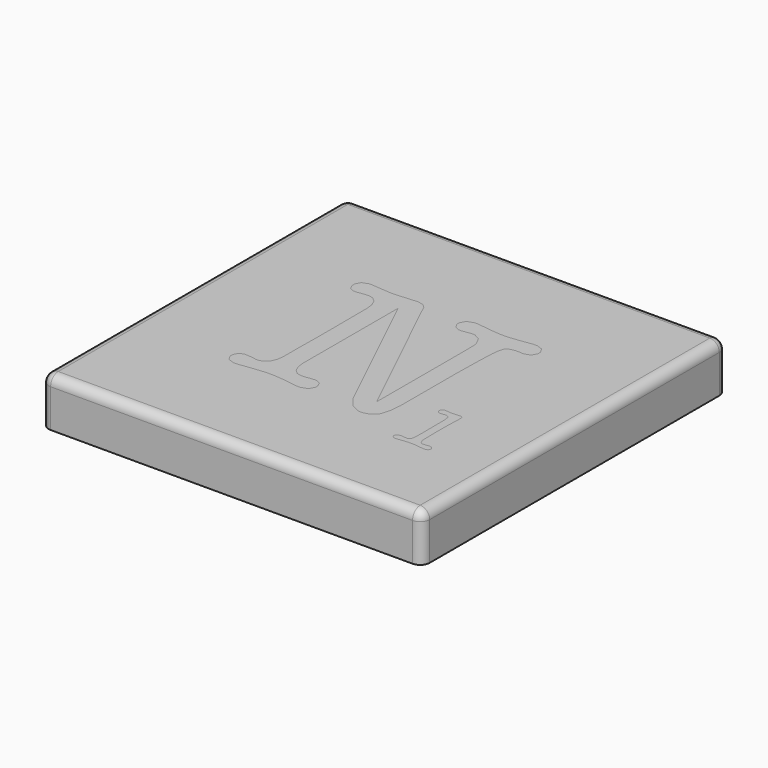
from build123d import *

# Parameters (mm, degrees)
F0_W     = 40
F0_H     = 40
F1_DEPTH = 5
F2_R     = 1
F5_DEPTH = 3


with BuildPart() as f1:
    # F0 (on Top) → F1 (new body)
    with BuildSketch(Plane.XY):
        Rectangle(F0_W, F0_H)
    extrude(amount=-F1_DEPTH)

    # F2
    f2_edges = [f1.edges().sort_by_distance(p)[0] for p in [
        (0, -20, 0),
        (20, 0, 0),
        (0, 20, 0),
        (-20, 0, 0),
        (-20, 20, -2.5),
        (20, 20, -2.5),
        (-20, -20, -2.5),
        (20, -20, -2.5),
    ]]
    fillet(f2_edges, radius=F2_R)


with BuildPart() as f5:
    # F3 (on Top) + F4 (on Top) → F5 (new body)
    with BuildSketch(Plane.XY):
        Polygon((4.735627, -6.89295), (-2.381936, 7.897546), (-2.672715, 8.532825), (-2.716809, 8.626526), (-3.076473, 8.950376), (-3.587699, 9.088171), (-3.757219, 9.088171), (-4.815561, 9.023401), (-4.947844, 9.009634), (-5.080127, 8.997213), (-5.840832, 8.9297), (-6.138469, 8.9297), (-6.356198, 8.9297), (-7.006641, 8.962771), (-7.956093, 9.039936), (-8.17659, 9.061983), (-8.220685, 9.067495), (-8.494928, 9.088171), (-8.599653, 9.088171), (-8.813241, 9.088171), (-9.452661, 8.856675), (-9.736531, 8.335747), (-9.736531, 8.162112), (-9.736531, 7.999527), (-9.525686, 7.508951), (-9.050274, 7.289851), (-8.890406, 7.289851), (-8.726424, 7.289851), (-8.23308, 7.355992), (-8.149031, 7.368362), (-8.092542, 7.37804), (-7.752156, 7.422134), (-7.619873, 7.422134), (-7.469657, 7.422134), (-7.019036, 7.298106), (-6.58909, 6.926021), (-6.331407, 6.305906), (-6.24459, 5.655488), (-6.24459, 5.437759), (-6.218403, 1.256767), (-6.218403, -1.018362), (-6.24459, -3.347263), (-6.24459, -5.199329), (-6.24459, -5.415686), (-6.330036, -6.067501), (-6.582207, -6.687617), (-7.003872, -7.059676), (-7.446239, -7.183704), (-7.593686, -7.183704), (-7.720457, -7.183704), (-8.100797, -7.116191), (-8.149031, -7.10377), (-8.246872, -7.094144), (-8.68647, -7.051421), (-8.864244, -7.051421), (-9.024087, -7.051421), (-9.499498, -7.255358), (-9.710344, -7.717003), (-9.710344, -7.871358), (-9.710344, -8.044993), (-9.426473, -8.565871), (-8.787054, -8.797392), (-8.573465, -8.797392), (-8.361248, -8.797392), (-8.339201, -8.79188), (-8.223453, -8.771204), (-8.17659, -8.771204), (-6.879869, -8.612734), (-6.699326, -8.590686), (-5.550027, -8.48045), (-5.106314, -8.48045), (-4.72186, -8.48045), (-3.56428, -8.590686), (-3.414116, -8.612734), (-2.328189, -8.771204), (-2.288261, -8.771204), (-2.165579, -8.79188), (-2.143531, -8.797392), (-1.985061, -8.797392), (-1.761846, -8.797392), (-1.092098, -8.565871), (-0.794436, -8.044993), (-0.794436, -7.871358), (-0.794436, -7.707376), (-1.006653, -7.215403), (-1.48209, -6.997675), (-1.640561, -6.997675), (-2.205558, -7.052793), (-2.27584, -7.063816), (-2.347493, -7.07484), (-2.752649, -7.129958), (-2.911119, -7.129958), (-3.059938, -7.129958), (-3.502304, -7.00593), (-3.92397, -6.63387), (-4.176141, -6.013755), (-4.260215, -5.36194), (-4.260215, -5.145583), (-4.260215, 7.157542), (2.671318, -7.262266), (2.821534, -7.570927), (3.670402, -8.651316), (4.567504, -9.114333), (4.86791, -9.114333), (5.081524, -9.114333), (5.723687, -8.928303), (6.214262, -8.496986), (6.283147, -8.374329), (6.350686, -8.250301), (6.590462, -7.361479), (6.693814, -6.195644), (6.693814, -5.80705), (6.693814, 1.256767), (6.746189, 3.954958), (6.799936, 5.463921), (6.808191, 5.658231), (6.897776, 6.423025), (7.050735, 6.915023), (7.090689, 6.971487), (7.129297, 7.029374), (7.466914, 7.230567), (7.958861, 7.316013), (8.122869, 7.316013), (8.387436, 7.316013), (8.403946, 7.311898), (8.605164, 7.289851), (8.678189, 7.289851), (8.87664, 7.289851), (9.471939, 7.514463), (9.736531, 8.020202), (9.736531, 8.1883), (9.736531, 8.361934), (9.451289, 8.882837), (8.810498, 9.114333), (8.598256, 9.114333), (8.413623, 9.114333), (8.391576, 9.110218), (8.273034, 9.088171), (8.227568, 9.088171), (8.139379, 9.075776), (7.367676, 8.96554), (7.301509, 8.955862), (7.111365, 8.9297), (5.933135, 8.797392), (5.477027, 8.797392), (5.139385, 8.797392), (4.126509, 8.886977), (3.994226, 8.903513), (2.803601, 9.061983), (2.78572, 9.067495), (2.545944, 9.088171), (2.460498, 9.088171), (2.237257, 9.088171), (1.56751, 8.851138), (1.269873, 8.315071), (1.269873, 8.13595), (1.269873, 7.998155), (1.477924, 7.583348), (1.520647, 7.540625), (1.561998, 7.499274), (1.967128, 7.289851), (2.115972, 7.289851), (2.256561, 7.289851), (2.679598, 7.344943), (2.751252, 7.355992), (2.821534, 7.366991), (3.226689, 7.422134), (3.386531, 7.422134), (3.60426, 7.422134), (4.258818, 7.07898), (4.669485, 6.275603), (4.709439, 6.045454), (4.71358, 6.011012), (4.728743, 5.371617), (4.735627, 4.171315), (4.735627, 3.770325), align=None)
    with BuildSketch(Plane.XY):
        Polygon((11.099817, -5.999166), (11.128748, -8.760755), (11.128748, -8.982599), (11.109469, -9.648206), (11.065349, -10.074012), (11.052954, -10.118106), (11.039187, -10.160829), (10.745665, -10.379929), (10.643684, -10.379929), (10.580285, -10.379929), (10.394256, -10.364765), (10.357045, -10.362022), (10.330857, -10.35651), (10.135176, -10.333092), (10.062151, -10.333092), (9.973962, -10.333092), (9.710742, -10.415769), (9.594994, -10.60317), (9.594994, -10.666568), (9.594994, -10.729967), (9.696975, -10.92288), (9.927099, -11.009697), (10.004264, -11.009697), (10.110385, -11.009697), (10.432838, -10.968371), (10.490725, -10.961462), (10.591309, -10.946298), (11.261056, -10.876042), (11.518739, -10.876042), (11.790214, -10.876042), (12.60464, -10.962859), (12.738295, -10.980766), (12.761714, -10.983509), (12.965676, -11.000045), (13.042841, -11.000045), (13.121403, -11.000045), (13.357039, -10.915996), (13.463135, -10.72857), (13.463135, -10.666568), (13.463135, -10.60317), (13.347387, -10.415769), (13.091075, -10.333092), (13.00563, -10.333092), (12.7259, -10.35237), (12.691457, -10.35651), (12.655618, -10.360651), (12.455796, -10.379929), (12.377259, -10.379929), (12.295954, -10.379929), (12.052038, -10.214575), (11.940405, -9.831467), (11.939033, -9.722603), (11.939033, -9.548968), (11.922498, -9.032205), (11.919754, -8.932993), (11.916986, -8.850316), (11.910102, -8.142011), (11.910102, -7.065737), (11.910102, -6.645443), (11.948685, -5.387305), (11.95694, -5.217786), (11.958337, -5.183369), (11.966592, -5.045574), (11.966592, -4.989059), (11.966592, -4.918777), (11.934893, -4.707931), (11.929381, -4.694165), (11.921126, -4.673489), (11.735096, -4.570136), (11.671698, -4.570136), (11.593161, -4.570136), (11.3575, -4.593555), (11.309265, -4.599042), (11.276195, -4.601836), (10.930323, -4.618346), (10.804923, -4.618346), (10.720849, -4.618346), (10.468678, -4.59767), (10.428698, -4.593555), (10.387372, -4.589415), (10.159992, -4.570136), (10.071803, -4.570136), (9.983614, -4.570136), (9.719022, -4.819539), (9.719022, -4.903613), (9.719022, -4.965614), (9.811351, -5.153066), (10.0208, -5.23709), (10.091081, -5.23709), (10.151711, -5.23709), (10.336369, -5.216414), (10.366697, -5.213671), (10.397024, -5.209531), (10.573402, -5.188855), (10.643684, -5.188855), (10.729129, -5.188855), (10.985441, -5.323907), (11.000605, -5.351491), (11.015743, -5.377679), (11.098445, -5.917835), align=None)
    extrude(amount=-F5_DEPTH)


solid = Compound([f1.part, f5.part])
